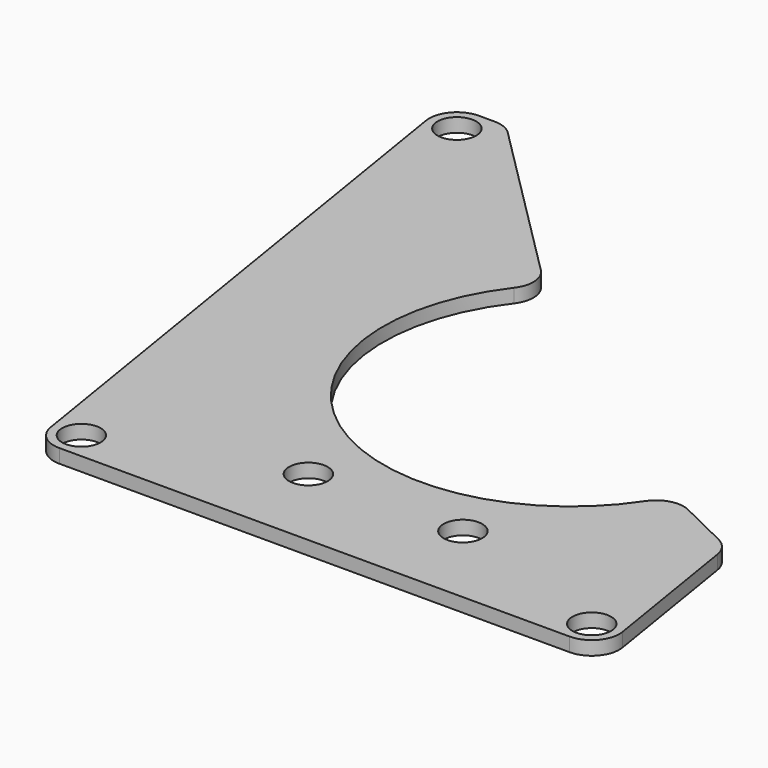
from build123d import *

# Parameters (mm, degrees)
F0_R     = 3.5
F1_DEPTH = 2.5


with BuildPart() as f1:
    # F0 (on Top) → F1 (new body)
    with BuildSketch(Plane.XY):
        with BuildLine():
            Line((-60.635068, 58.814), (-63.489865, 58.814))
            ThreePointArc((-63.489865, 58.814), (-67.297148, 57.055079), (-68.425747, 53.015837))
            Line((-68.425747, 53.015837), (-51.185882, -53.596367))
            ThreePointArc((-51.185882, -53.596367), (-49.491079, -56.605488), (-46.25, -57.798204))
            Line((-46.25, -57.798204), (46.25, -57.798204))
            ThreePointArc((46.25, -57.798204), (50.057284, -56.039283), (51.185882, -52.000041))
            Line((51.185882, -52.000041), (46.832282, -25.077153))
            ThreePointArc((46.832282, -25.077153), (45.910862, -22.894697), (44.088255, -21.381346))
            Line((44.088255, -21.381346), (35.013699, -16.955389))
            ThreePointArc((35.013699, -16.955389), (31.501043, -16.626965), (28.645966, -18.699441))
            ThreePointArc((28.645966, -18.699441), (-19.4939, -27.679928), (-26.675491, 20.760971))
            ThreePointArc((-26.675491, 20.760971), (-25.645449, 24.135231), (-27.099589, 27.349589))
            Line((-27.099589, 27.349589), (-57.099534, 57.349534))
            ThreePointArc((-57.099534, 57.349534), (-58.721651, 58.433398), (-60.635068, 58.814))
        make_face()
        with Locations((-46.25, -52.798204)):
            Circle(F0_R, mode=Mode.SUBTRACT)
        with Locations((-13.75, -42)):
            Circle(F0_R, mode=Mode.SUBTRACT)
        with Locations((14.25, -42)):
            Circle(F0_R, mode=Mode.SUBTRACT)
        with Locations((46.25, -52.798204)):
            Circle(F0_R, mode=Mode.SUBTRACT)
        with Locations((-63.489865, 53.814)):
            Circle(F0_R, mode=Mode.SUBTRACT)
    extrude(amount=F1_DEPTH)


solid = f1.part
